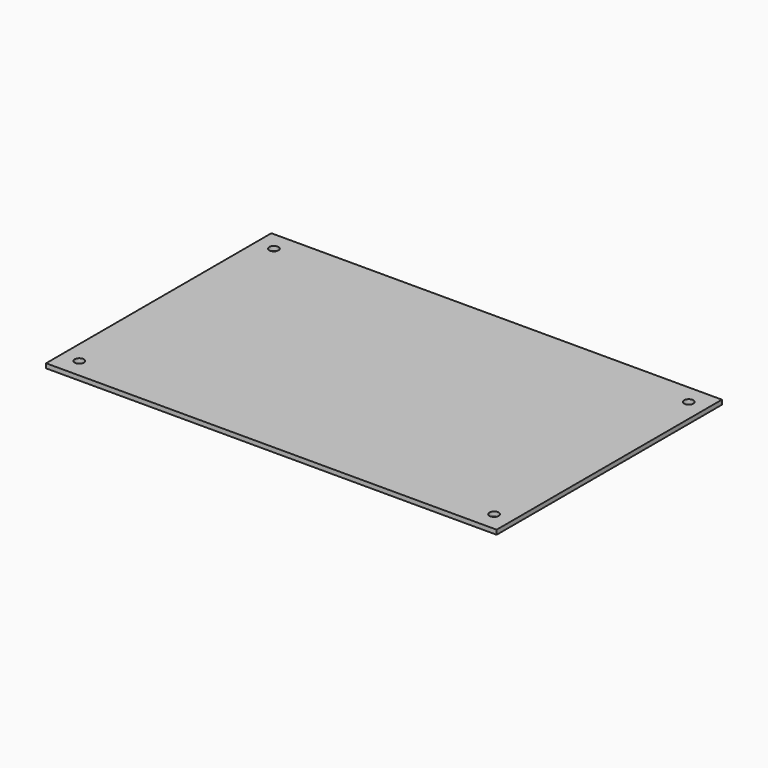
from build123d import *

# Parameters (mm, degrees)
F0_W     = 160
F0_H     = 100
F1_DEPTH = 1.6
F3_D     = 3.3


with BuildPart() as f1:
    # F0 (on Top) → F1 (new body)
    with BuildSketch(Plane.XY):
        with Locations((80, 50)):
            Rectangle(F0_W, F0_H)
    extrude(amount=F1_DEPTH)

    # F3 (through all)
    with Locations(Plane.XY.offset(1.6)):
        with Locations((6.34, 93.18), (6.34, 6.82), (153.66, 6.82), (153.66, 93.18)):
            Hole(F3_D / 2)


solid = f1.part
